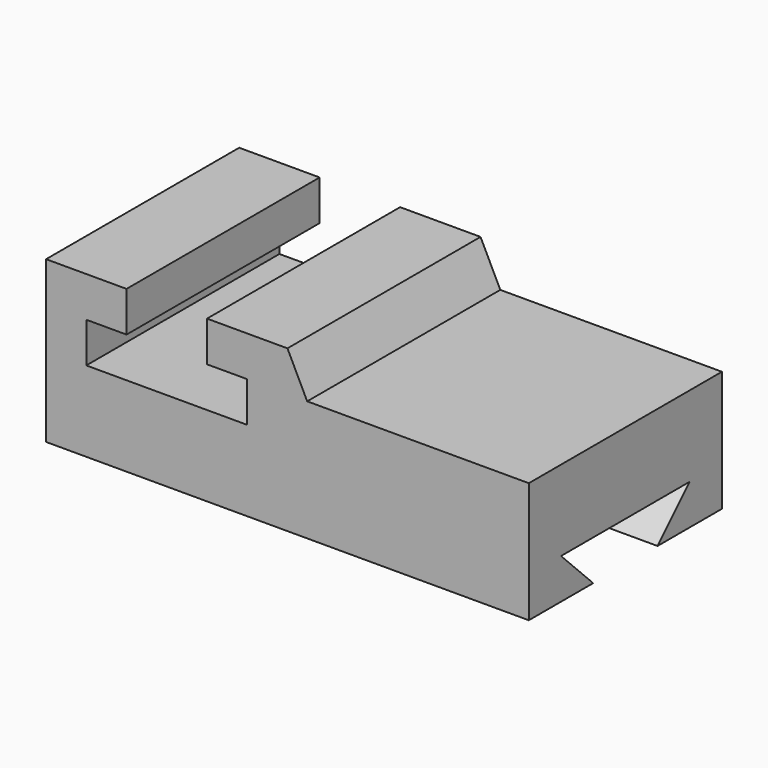
from build123d import *

# Parameters (mm, degrees)
F1_DEPTH = 76.2
F3_DEPTH = 152.4


with BuildPart() as f1:
    # F0 (on Front) → F1 (new body)
    with BuildSketch(Plane.XZ):
        Polygon((0, 25.4), (0, 0), (152.4, 0), (152.4, 38.1), (82.432099, 38.1), (76.2, 50.8), (50.8, 50.8), (50.8, 38.1), (63.5, 38.1), (63.5, 25.4), (12.7, 25.4), align=None)
        Polygon((0, 50.8), (0, 25.4), (12.7, 25.4), (12.7, 38.1), (25.4, 38.1), (25.4, 50.8), align=None)
    extrude(amount=F1_DEPTH)

    # F2 (on face) → F3 (cut)
    with BuildSketch(Plane.YZ.offset(152.4)):
        Polygon((-63.5, 12.7), (-50.8, 0), (-25.4, 0), (-12.7, 12.7), align=None)
    extrude(amount=-F3_DEPTH, mode=Mode.SUBTRACT)


solid = f1.part
